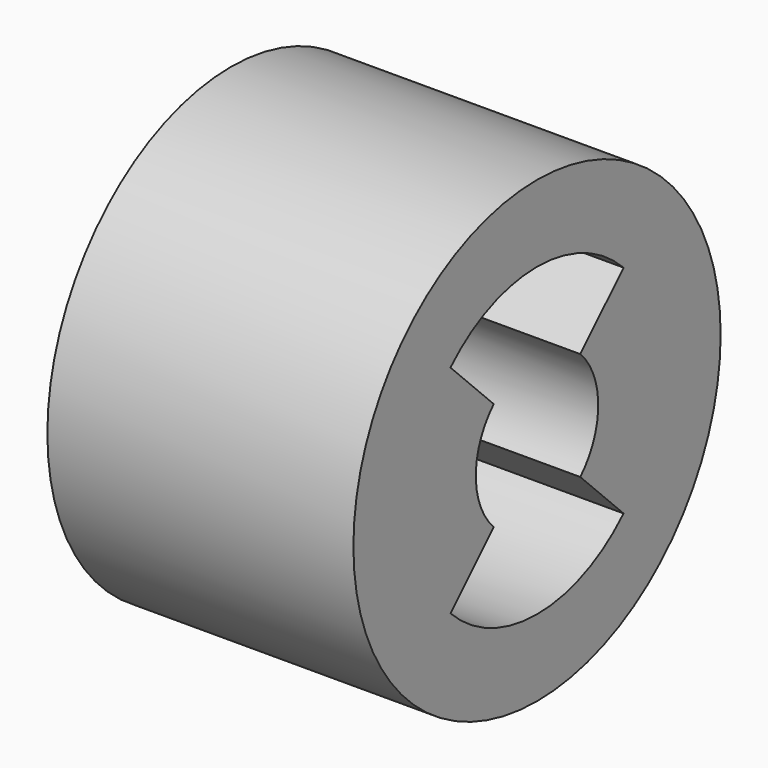
from build123d import *

# Parameters (mm, degrees)
SKETCH_R     = 15
PAD_DEPTH    = 10
POCKET_DEPTH = 10


with BuildPart() as part:
    # Sketch → Pad (new body, symmetric)
    with BuildSketch(Plane.YZ):
        Circle(SKETCH_R)
    extrude(amount=PAD_DEPTH, both=True)

    # Sketch001 (on Face3 of Pad) → Pocket (cut)
    with BuildSketch(Plane.YZ.offset(10)):
        with BuildLine():
            Line((3.535534, -3.535534), (7.071068, -7.071068))
            ThreePointArc((-7.071068, -7.071068), (0, -10), (7.071068, -7.071068))
            Line((-3.535534, -3.535534), (-7.071068, -7.071068))
            ThreePointArc((-3.535534, 3.535534), (-5, 0), (-3.535534, -3.535534))
            Line((-3.535534, 3.535534), (-7.071068, 7.071068))
            ThreePointArc((7.071068, 7.071068), (0, 10), (-7.071068, 7.071068))
            Line((3.535534, 3.535534), (7.071068, 7.071068))
            ThreePointArc((3.535534, -3.535534), (5, 0), (3.535534, 3.535534))
        make_face()
    extrude(amount=-POCKET_DEPTH, mode=Mode.SUBTRACT)


solid = part.part
